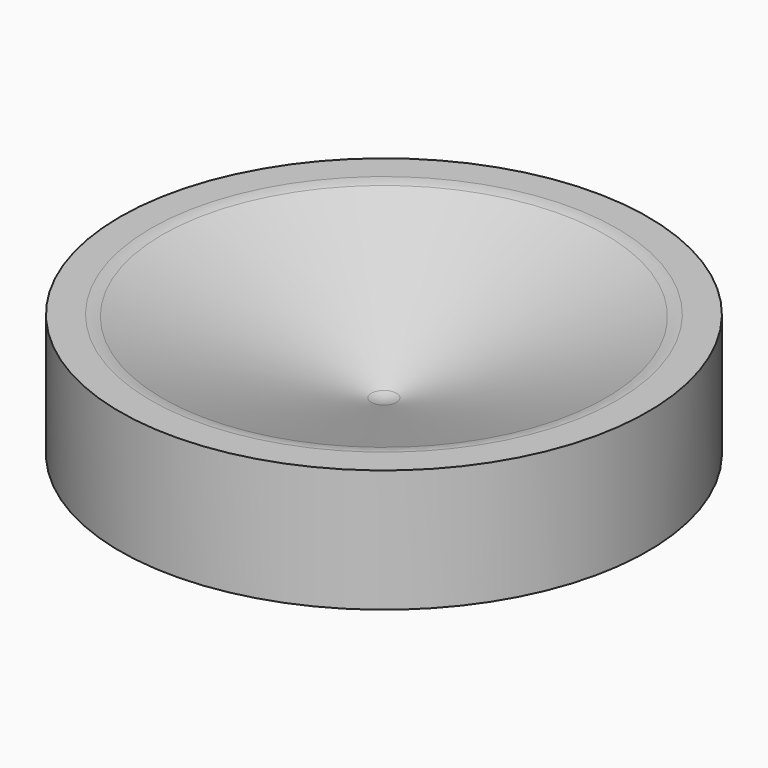
from build123d import *


with BuildPart() as f1:
    # F0 (on Front) → F1 (revolve)
    with BuildSketch(Plane.XZ):
        with BuildLine():
            Line((-44.151094, 20.516836), (-44.151094, 0))
            Line((-44.151094, 0), (0, 0))
            Line((0, 0), (0, 7.882655))
            ThreePointArc((0, 7.882655), (-1.062921, 7.970628), (-2.096917, 8.232152))
            Line((-2.096917, 8.232152), (-37.044911, 20.214722))
            ThreePointArc((-37.044911, 20.214722), (-38.000867, 20.440853), (-38.980261, 20.516836))
            Line((-38.980261, 20.516836), (-44.151094, 20.516836))
        make_face()
    revolve(axis=Axis((0, 0, 3.941327), (0, 0, 1)))


solid = f1.part
